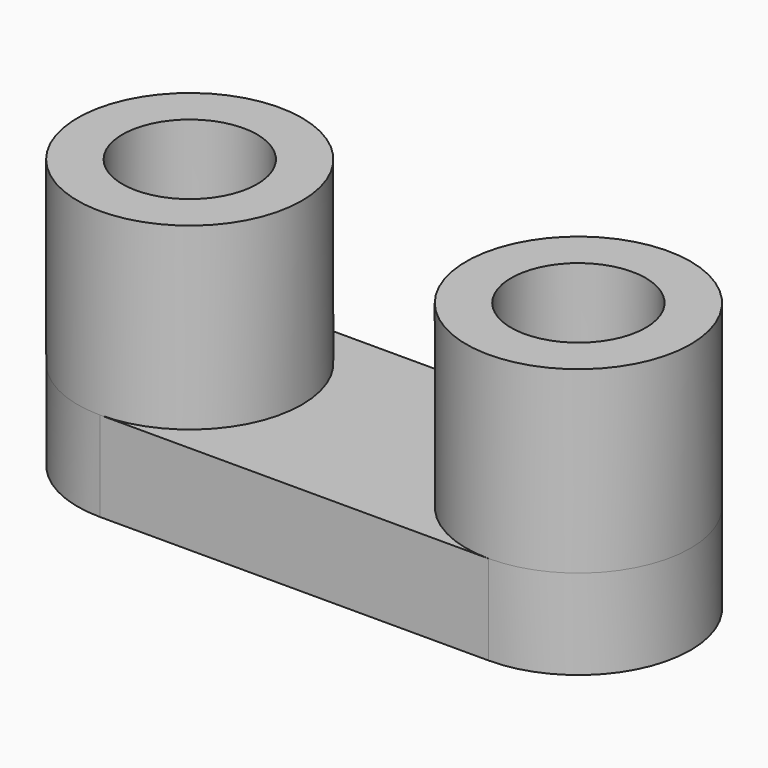
from build123d import *

# Parameters (mm, degrees)
SKETCH030_R      = 1.5
EXTRUDE031_DEPTH = 4
SKETCH031_R      = 2.5
EXTRUDE030_DEPTH = 4
EXTRUDE037_DEPTH = 2


with BuildPart() as obj1:
    # Sketch030 → Extrude031 (new body)
    with BuildSketch(Plane.XY):
        with Locations((2.15, 7.435)):
            Circle(SKETCH030_R)
        with Locations((10.81, 7.435)):
            Circle(SKETCH030_R)
    extrude(amount=EXTRUDE031_DEPTH)


with BuildPart() as obj2:
    # Sketch031 → Extrude030 (new body)
    with BuildSketch(Plane.XY):
        with Locations((2.15, 7.435)):
            Circle(SKETCH031_R)
        with Locations((10.81, 7.435)):
            Circle(SKETCH031_R)
    extrude(amount=EXTRUDE030_DEPTH)

    # Cut004: cut obj1
    add(obj1.part, mode=Mode.SUBTRACT)


with BuildPart() as obj2_1:
    # Cut004 placement: moved
    add(obj2.part.moved(Location((37, 37.9, 2))))


with BuildPart() as obj2_2:
    # Link005 placement: moved
    add(obj2_1.part.moved(Location((-37, -37.9, -2))))


with BuildPart() as obj3:
    # Sketch037 → Extrude037 (new body)
    with BuildSketch(Plane.XY):
        with BuildLine():
            ThreePointArc((2.15, 9.935), (-0.35, 7.435), (2.15, 4.935))
            Line((2.15, 4.935), (10.81, 4.935))
            ThreePointArc((10.81, 4.935), (13.31, 7.435), (10.81, 9.935))
            Line((10.81, 9.935), (2.15, 9.935))
        make_face()
    extrude(amount=-EXTRUDE037_DEPTH)

    # Fusion010: union obj2
    add(obj2_2.part)


solid = obj3.part
